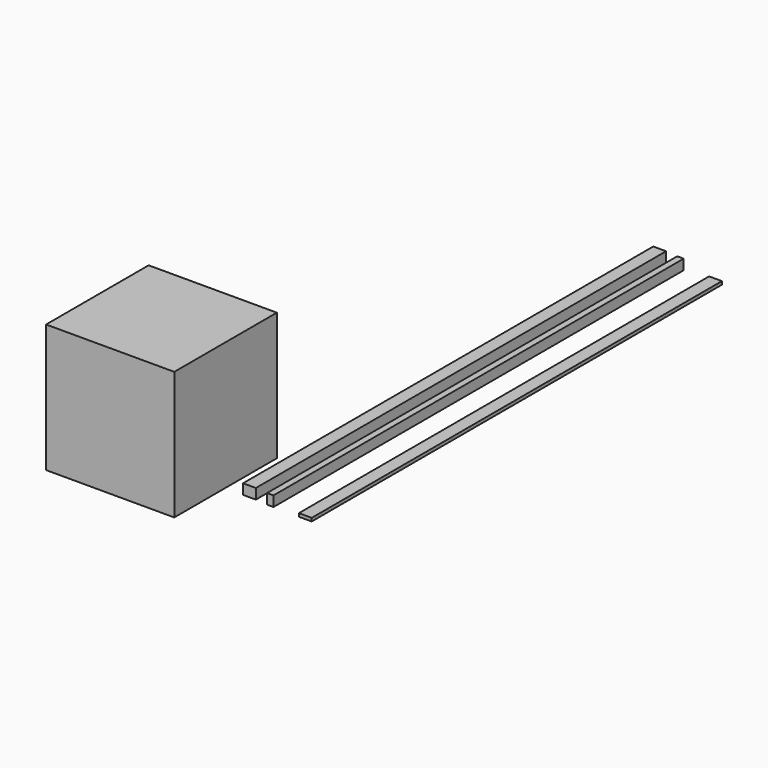
from build123d import *

# Parameters (mm, degrees)
F0_W     = 1000
F0_H     = 1000
F1_DEPTH = 1000
F2_W     = 100
F2_H     = 80
F2_W_2   = 50
F2_H_2   = 25
F3_DEPTH = 4000


with BuildPart() as f1:
    # F0 (on Top) → F1 (new body)
    with BuildSketch(Plane.XY):
        Rectangle(F0_W, F0_H)
    extrude(amount=F1_DEPTH)


with BuildPart() as f3:
    # F2 (on Front) → F3 (new body)
    with BuildSketch(Plane.XZ):
        with Locations((686.342341, 35.93486)):
            Rectangle(F2_W, F2_H)
        with Locations((848.883355, 29.844633)):
            Rectangle(F2_W_2, F2_H)
        with Locations((1122.126705, 0)):
            Rectangle(F2_W, F2_H_2)
    extrude(amount=-F3_DEPTH)


solid = Compound([f1.part, f3.part])
